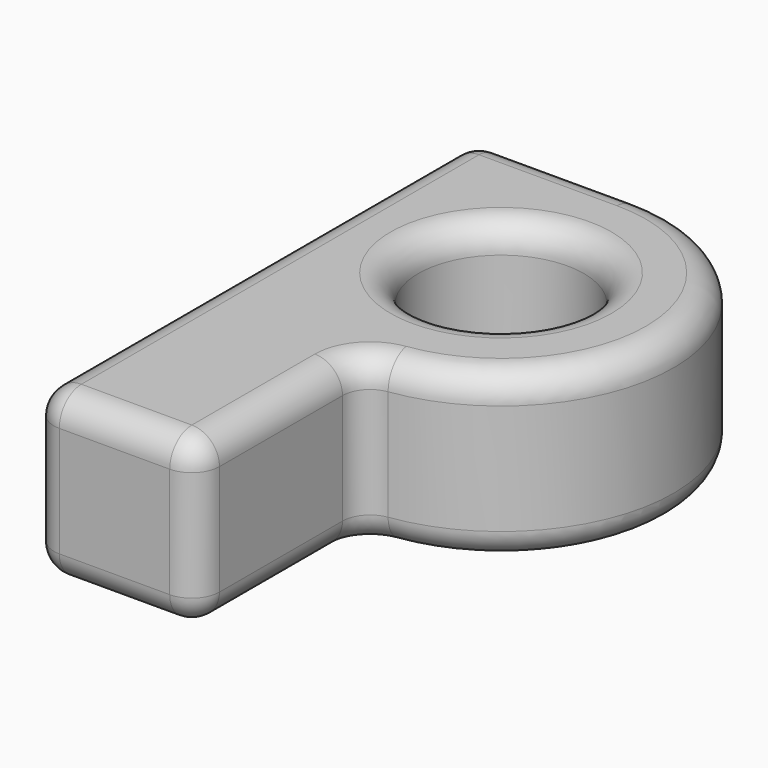
from build123d import *

# Parameters (mm, degrees)
F0_R     = 6
F1_DEPTH = 12
F2_R     = 2


with BuildPart() as f1:
    # F0 (on Top) → F1 (new body)
    with BuildSketch(Plane.XY):
        with BuildLine():
            Line((0, 40), (0, 0))
            Line((0, 0), (12, 0))
            Line((12, 0), (12, 15))
            ThreePointArc((12, 15), (24.5, 27.5), (12, 40))
            Line((12, 40), (0, 40))
        make_face()
        with Locations((12, 27.5)):
            Circle(F0_R, mode=Mode.SUBTRACT)
    extrude(amount=F1_DEPTH)

    # F2
    f2_edges = [f1.edges().sort_by_distance(p)[0] for p in [
        (6, 40, 12),
        (0, 20, 12),
        (6, 0, 12),
        (12, 7.5, 12),
        (24.5, 27.5, 12),
        (6, 27.5, 12),
        (6, 40, 0),
        (0, 20, 0),
        (6, 0, 0),
        (12, 7.5, 0),
        (24.5, 27.5, 0),
        (6, 27.5, 0),
        (0, 40, 6),
        (0, 0, 6),
        (12, 0, 6),
        (12, 15, 6),
    ]]
    fillet(f2_edges, radius=F2_R)


solid = f1.part
